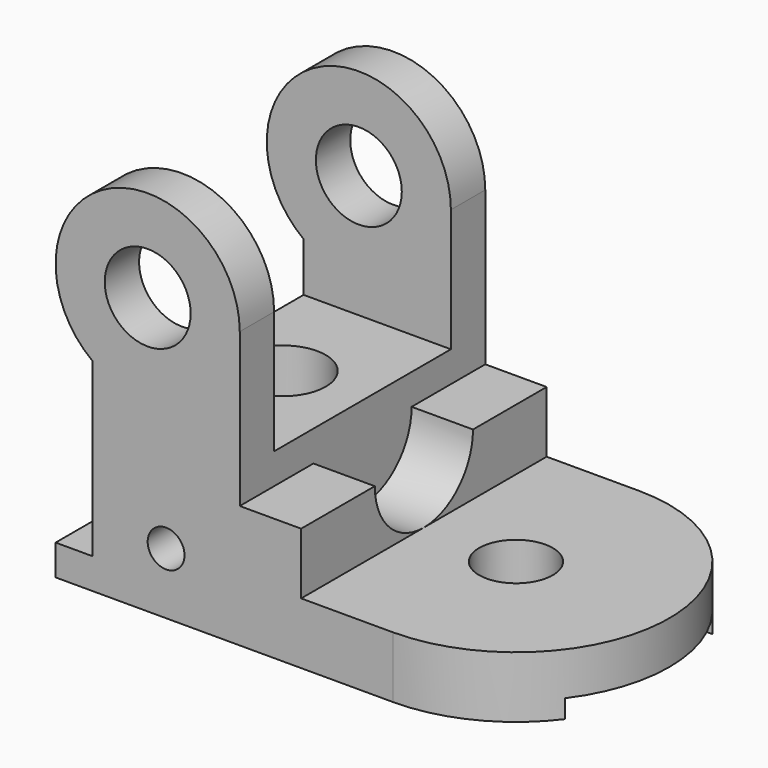
from build123d import *

# Parameters (mm, degrees)
SKETCH_R        = 7
SKETCH_R_2      = 3
PAD_DEPTH       = 25
SKETCH001_R     = 25
PAD001_DEPTH    = 10
SKETCH002_W     = 35
SKETCH002_H     = 36
POCKET_DEPTH    = 30.001
SKETCH003_R     = 7
POCKET001_DEPTH = 25.001
SKETCH004_R     = 6
POCKET002_DEPTH = 10.001
SKETCH005_W     = 10
SKETCH005_H     = 50
PAD002_DEPTH    = 10
SKETCH006_R     = 10
POCKET003_DEPTH = 10
SKETCH007_W     = 3
SKETCH007_H     = 30
POCKET004_DEPTH = 80.001


with BuildPart() as part:
    # Sketch → Pad (new body, symmetric)
    with BuildSketch(Plane.XZ):
        with BuildLine():
            Line((0, 0), (0, 5))
            Line((0, 5), (6, 5))
            Line((6, 5), (6, 33.000004))
            ThreePointArc((30, 45.012649), (8.286148, 58.41358), (6, 33.000004))
            Line((30, 45.012649), (30, 10))
            Line((30, 10), (55, 10))
            Line((55, 10), (55, 0))
            Line((0, 0), (55, 0))
        make_face()
        with Locations((15.000005, 45)):
            Circle(SKETCH_R, mode=Mode.SUBTRACT)
        with Locations((18, 10)):
            Circle(SKETCH_R_2, mode=Mode.SUBTRACT)
    extrude(amount=PAD_DEPTH, both=True)

    # Sketch001 → Pad001 (new body)
    with BuildSketch(Plane(origin=(0, 0, 10), x_dir=(-1, 0, 0), z_dir=(0, 0, 1))):
        with Locations((-55, 0)):
            Circle(SKETCH001_R)
    extrude(amount=-PAD001_DEPTH)

    # Sketch002 → Pocket (cut, through all)
    with BuildSketch(Plane(origin=(30, 0, 0), x_dir=(0, 0, 1), z_dir=(1, 0, 0))):
        with Locations((42.5, 0)):
            Rectangle(SKETCH002_W, SKETCH002_H)
    extrude(amount=-POCKET_DEPTH, mode=Mode.SUBTRACT)

    # Sketch003 → Pocket001 (cut, through all)
    with BuildSketch(Plane(origin=(0, 0, 25), x_dir=(-1, 0, 0), z_dir=(0, 0, 1))):
        with Locations((-17, 0)):
            Circle(SKETCH003_R)
    extrude(amount=-POCKET001_DEPTH, mode=Mode.SUBTRACT)

    # Sketch004 → Pocket002 (cut, through all)
    with BuildSketch(Plane(origin=(0, 0, 10), x_dir=(-1, 0, 0), z_dir=(0, 0, 1))):
        with Locations((-55, 0)):
            Circle(SKETCH004_R)
    extrude(amount=-POCKET002_DEPTH, mode=Mode.SUBTRACT)

    # Sketch005 → Pad002 (new body)
    with BuildSketch(Plane(origin=(30, 0, 0), x_dir=(0, 0, 1), z_dir=(1, 0, 0))):
        with Locations((15, 0)):
            Rectangle(SKETCH005_W, SKETCH005_H)
    extrude(amount=PAD002_DEPTH)

    # Sketch006 → Pocket003 (cut)
    with BuildSketch(Plane(origin=(40, 0, 0), x_dir=(0, 0, 1), z_dir=(1, 0, 0))):
        with Locations((20, 0)):
            Circle(SKETCH006_R)
    extrude(amount=-POCKET003_DEPTH, mode=Mode.SUBTRACT)

    # Sketch007 → Pocket004 (cut, through all)
    with BuildSketch(Plane(origin=(0, 0, 0), x_dir=(0, 0, -1), z_dir=(-1, 0, 0))):
        with Locations((-1.5, 0)):
            Rectangle(SKETCH007_W, SKETCH007_H)
    extrude(amount=-POCKET004_DEPTH, mode=Mode.SUBTRACT)


solid = part.part
